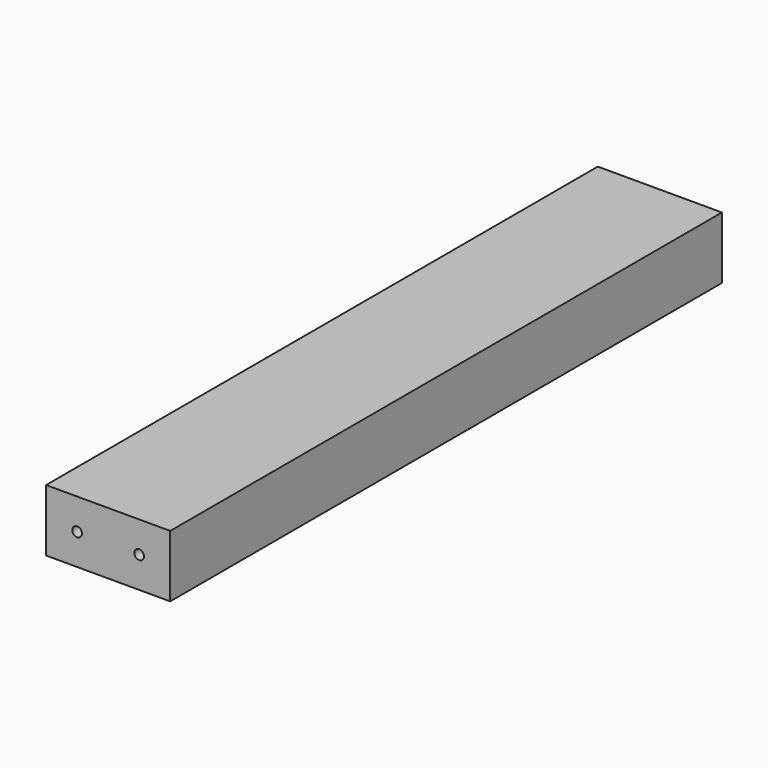
from build123d import *

# Parameters (mm, degrees)
F0_W     = 90
F0_H     = 45
F1_DEPTH = 500
F3_D     = 7


with BuildPart() as f1:
    # F0 (on Front) → F1 (new body)
    with BuildSketch(Plane.XZ):
        with Locations((45, 22.5)):
            Rectangle(F0_W, F0_H)
    extrude(amount=F1_DEPTH)

    # F3 (through all)
    with Locations(Plane(origin=(0, 0, 0), x_dir=(-1, 0, 0), z_dir=(0, 1, 0))):
        with Locations((-67.5, 22.5), (-22.5, 22.5)):
            Hole(F3_D / 2)


solid = f1.part
